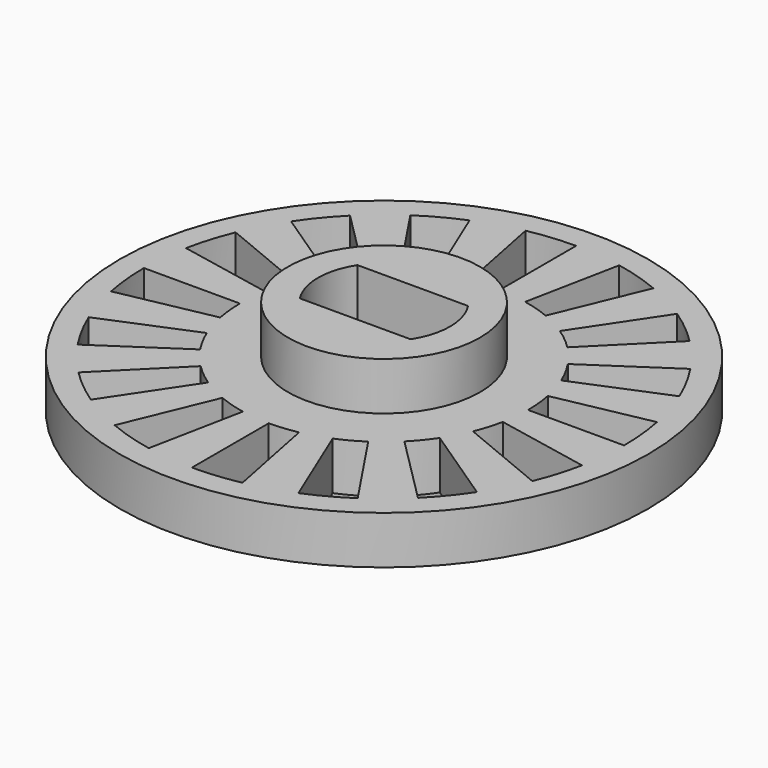
from build123d import *

# Parameters (mm, degrees)
F0_R     = 4
F1_DEPTH = 3
F0_R_2   = 11
F2_DEPTH = 1


with BuildPart() as f1:
    # F0 (on Top) → F1 (new body, symmetric)
    with BuildSketch(Plane.XY):
        Circle(F0_R)
        with BuildLine():
            ThreePointArc((-2.304886, -1.5), (-2.75, 0), (-2.304886, 1.5))
            Line((-2.304886, 1.5), (2.304886, 1.5))
            ThreePointArc((2.304886, 1.5), (2.75, 0), (2.304886, -1.5))
            Line((2.304886, -1.5), (-2.304886, -1.5))
        make_face(mode=Mode.SUBTRACT)
    extrude(amount=F1_DEPTH, both=True)

    # F0 (on Top) → F2 (join, symmetric)
    with BuildSketch(Plane.XY):
        Circle(F0_R_2)
        with BuildLine():
            Line((-7.071068, -7.071068), (-4.242641, -4.242641))
            ThreePointArc((-4.242641, -4.242641), (-3.80636, -4.638063), (-3.333421, -4.988818))
            Line((-3.333421, -4.988818), (-5.555702, -8.314696))
            ThreePointArc((-5.555702, -8.314696), (-6.343933, -7.730105), (-7.071068, -7.071068))
        make_face(mode=Mode.SUBTRACT)
        with BuildLine():
            Line((-3.826834, -9.238795), (-2.296101, -5.543277))
            ThreePointArc((-2.296101, -5.543277), (-1.741708, -5.741642), (-1.170542, -5.884712))
            Line((-1.170542, -5.884712), (-1.950903, -9.807853))
            ThreePointArc((-1.950903, -9.807853), (-2.902847, -9.569403), (-3.826834, -9.238795))
        make_face(mode=Mode.SUBTRACT)
        with BuildLine():
            Line((-9.238795, -3.826834), (-5.543277, -2.296101))
            ThreePointArc((-5.543277, -2.296101), (-5.291528, -2.82838), (-4.988818, -3.333421))
            Line((-4.988818, -3.333421), (-8.314696, -5.555702))
            ThreePointArc((-8.314696, -5.555702), (-8.819213, -4.713967), (-9.238795, -3.826834))
        make_face(mode=Mode.SUBTRACT)
        with BuildLine():
            Line((-10, 0), (-6, 0))
            ThreePointArc((-6, 0), (-5.971108, -0.588103), (-5.884712, -1.170542))
            Line((-5.884712, -1.170542), (-9.807853, -1.950903))
            ThreePointArc((-9.807853, -1.950903), (-9.951847, -0.980171), (-10, 0))
        make_face(mode=Mode.SUBTRACT)
        with BuildLine():
            ThreePointArc((1.950903, -9.807853), (0.980171, -9.951847), (0, -10))
            Line((0, -10), (0, -6))
            ThreePointArc((0, -6), (0.588103, -5.971108), (1.170542, -5.884712))
            Line((1.170542, -5.884712), (1.950903, -9.807853))
        make_face(mode=Mode.SUBTRACT)
        with BuildLine():
            Line((3.826834, -9.238795), (2.296101, -5.543277))
            ThreePointArc((2.296101, -5.543277), (2.82838, -5.291528), (3.333421, -4.988818))
            Line((3.333421, -4.988818), (5.555702, -8.314696))
            ThreePointArc((5.555702, -8.314696), (4.713967, -8.819213), (3.826834, -9.238795))
        make_face(mode=Mode.SUBTRACT)
        with BuildLine():
            Line((7.071068, -7.071068), (4.242641, -4.242641))
            ThreePointArc((4.242641, -4.242641), (4.638063, -3.80636), (4.988818, -3.333421))
            Line((4.988818, -3.333421), (8.314696, -5.555702))
            ThreePointArc((8.314696, -5.555702), (7.730105, -6.343933), (7.071068, -7.071068))
        make_face(mode=Mode.SUBTRACT)
        with BuildLine():
            Line((9.238795, -3.826834), (5.543277, -2.296101))
            ThreePointArc((5.543277, -2.296101), (5.741642, -1.741708), (5.884712, -1.170542))
            Line((5.884712, -1.170542), (9.807853, -1.950903))
            ThreePointArc((9.807853, -1.950903), (9.569403, -2.902847), (9.238795, -3.826834))
        make_face(mode=Mode.SUBTRACT)
        with BuildLine():
            Line((-9.238795, 3.826834), (-5.543277, 2.296101))
            ThreePointArc((-5.543277, 2.296101), (-5.741642, 1.741708), (-5.884712, 1.170542))
            Line((-5.884712, 1.170542), (-9.807853, 1.950903))
            ThreePointArc((-9.807853, 1.950903), (-9.569403, 2.902847), (-9.238795, 3.826834))
        make_face(mode=Mode.SUBTRACT)
        with BuildLine():
            Line((-7.071068, 7.071068), (-4.242641, 4.242641))
            ThreePointArc((-4.242641, 4.242641), (-4.638063, 3.80636), (-4.988818, 3.333421))
            Line((-4.988818, 3.333421), (-8.314696, 5.555702))
            ThreePointArc((-8.314696, 5.555702), (-7.730105, 6.343933), (-7.071068, 7.071068))
        make_face(mode=Mode.SUBTRACT)
        with BuildLine():
            Line((-3.826834, 9.238795), (-2.296101, 5.543277))
            ThreePointArc((-2.296101, 5.543277), (-2.82838, 5.291528), (-3.333421, 4.988818))
            Line((-3.333421, 4.988818), (-5.555702, 8.314696))
            ThreePointArc((-5.555702, 8.314696), (-4.713967, 8.819213), (-3.826834, 9.238795))
        make_face(mode=Mode.SUBTRACT)
        with BuildLine():
            Line((0, 10), (0, 6))
            ThreePointArc((0, 6), (-0.588103, 5.971108), (-1.170542, 5.884712))
            Line((-1.170542, 5.884712), (-1.950903, 9.807853))
            ThreePointArc((-1.950903, 9.807853), (-0.980171, 9.951847), (0, 10))
        make_face(mode=Mode.SUBTRACT)
        Circle(F0_R, mode=Mode.SUBTRACT)
        with BuildLine():
            Line((10, 0), (6, 0))
            ThreePointArc((6, 0), (5.971108, 0.588103), (5.884712, 1.170542))
            Line((5.884712, 1.170542), (9.807853, 1.950903))
            ThreePointArc((9.807853, 1.950903), (9.951847, 0.980171), (10, 0))
        make_face(mode=Mode.SUBTRACT)
        with BuildLine():
            Line((9.238795, 3.826834), (5.543277, 2.296101))
            ThreePointArc((5.543277, 2.296101), (5.291528, 2.82838), (4.988818, 3.333421))
            Line((4.988818, 3.333421), (8.314696, 5.555702))
            ThreePointArc((8.314696, 5.555702), (8.819213, 4.713967), (9.238795, 3.826834))
        make_face(mode=Mode.SUBTRACT)
        with BuildLine():
            Line((3.826834, 9.238795), (2.296101, 5.543277))
            ThreePointArc((2.296101, 5.543277), (1.741708, 5.741642), (1.170542, 5.884712))
            Line((1.170542, 5.884712), (1.950903, 9.807853))
            ThreePointArc((1.950903, 9.807853), (2.902847, 9.569403), (3.826834, 9.238795))
        make_face(mode=Mode.SUBTRACT)
        with BuildLine():
            Line((7.071068, 7.071068), (4.242641, 4.242641))
            ThreePointArc((4.242641, 4.242641), (3.80636, 4.638063), (3.333421, 4.988818))
            Line((3.333421, 4.988818), (5.555702, 8.314696))
            ThreePointArc((5.555702, 8.314696), (6.343933, 7.730105), (7.071068, 7.071068))
        make_face(mode=Mode.SUBTRACT)
    extrude(amount=F2_DEPTH, both=True)


solid = f1.part
